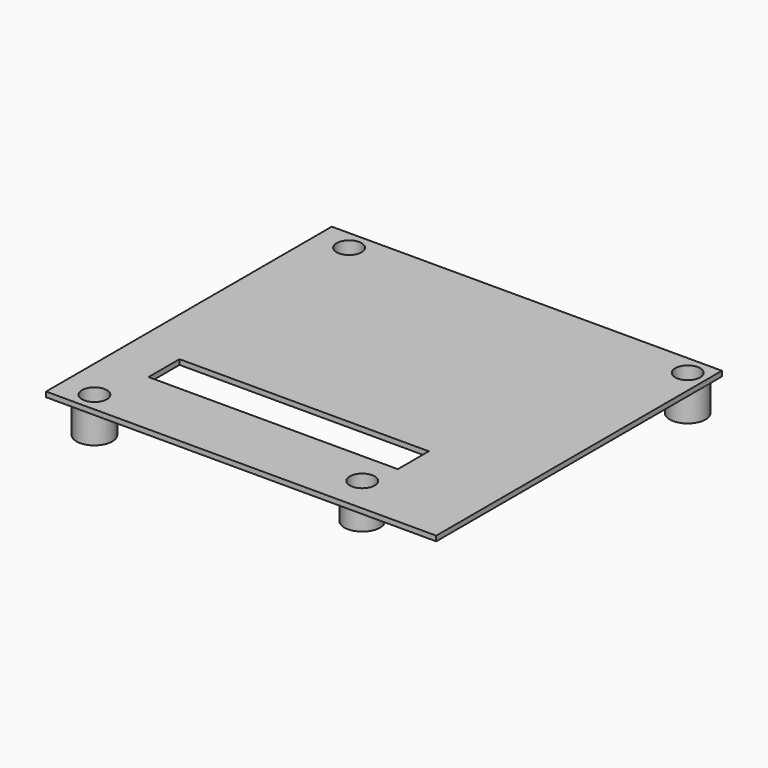
from build123d import *

# Parameters (mm, degrees)
SKETCH_W         = 74
SKETCH_H         = 11.5
EXTRUDE002_DEPTH = 10
SKETCH007_R      = 3.7
EXTRUDE001_DEPTH = 11.5
SKETCH006_R      = 5.3
SKETCH006_R_2    = 2
EXTRUDE_DEPTH    = 9
BOX001_W         = 115.8
BOX001_H         = 106
BOX001_DEPTH     = 1.5


with BuildPart() as extrude002:
    # Sketch → Extrude002 (new body)
    with BuildSketch(Plane.XY.offset(3.5)):
        with Locations((-9, -26.75)):
            Rectangle(SKETCH_W, SKETCH_H)
    extrude(amount=-EXTRUDE002_DEPTH)


with BuildPart() as extrude001:
    # Sketch007 → Extrude001 (new body)
    with BuildSketch(Plane.XY.offset(2)):
        with Locations((-50.25, -47.25)):
            Circle(SKETCH007_R)
        with Locations((50.25, 47.25)):
            Circle(SKETCH007_R)
        with Locations((-50.25, 47.25)):
            Circle(SKETCH007_R)
        with Locations((25.25, -42.25)):
            Circle(SKETCH007_R)
    extrude(amount=-EXTRUDE001_DEPTH)


with BuildPart() as extrude001_1:
    # Extrude001 placement: moved
    add(extrude001.part.moved(Location((0, 0, 4))))


with BuildPart() as extrude_mount_columns:
    # Sketch006 → Extrude (new body)
    with BuildSketch(Plane.XY.offset(2)):
        with Locations((-50.25, -47.25)):
            Circle(SKETCH006_R)
        with Locations((-50.25, -47.25)):
            Circle(SKETCH006_R_2, mode=Mode.SUBTRACT)
        with Locations((50.25, 47.25)):
            Circle(SKETCH006_R)
        with Locations((50.25, 47.25)):
            Circle(SKETCH006_R_2, mode=Mode.SUBTRACT)
        with Locations((-50.25, 47.25)):
            Circle(SKETCH006_R)
        with Locations((-50.25, 47.25)):
            Circle(SKETCH006_R_2, mode=Mode.SUBTRACT)
        with Locations((25.25, -42.25)):
            Circle(SKETCH006_R)
        with Locations((25.25, -42.25)):
            Circle(SKETCH006_R_2, mode=Mode.SUBTRACT)
    extrude(amount=-EXTRUDE_DEPTH)


with BuildPart() as cut001:
    # Box001 → Box001 (new body)
    with BuildSketch(Plane(origin=(-60, -53, 2), x_dir=(1, 0, 0), z_dir=(0, 0, 1))):
        with Locations((57.9, 53)):
            Rectangle(BOX001_W, BOX001_H)
    extrude(amount=BOX001_DEPTH)

    # Fusion: union Extrude Mount Columns
    add(extrude_mount_columns.part)

    # Cut: cut Extrude001
    add(extrude001_1.part, mode=Mode.SUBTRACT)

    # Cut001: cut Extrude002
    add(extrude002.part, mode=Mode.SUBTRACT)


solid = cut001.part
